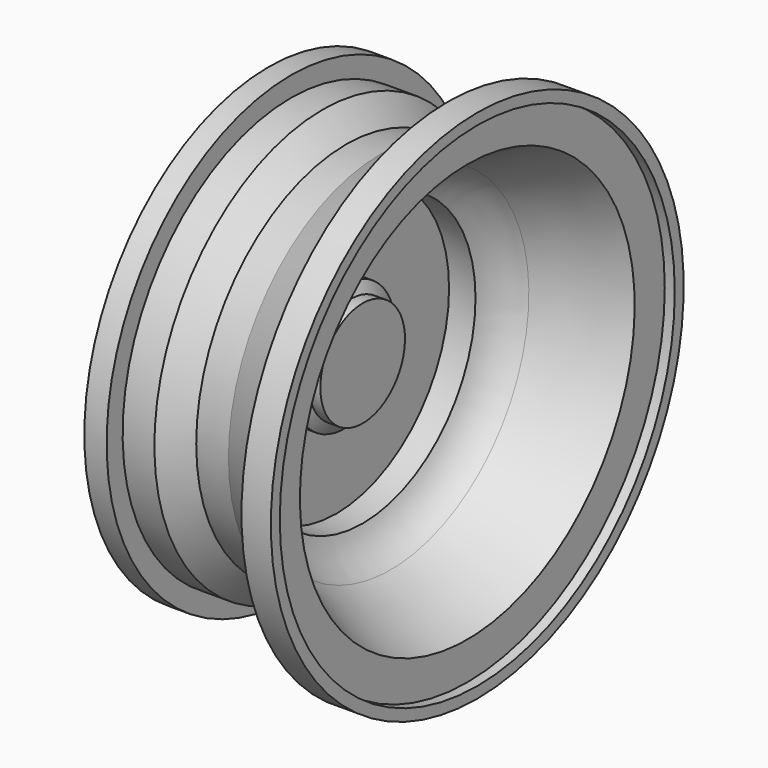
from build123d import *


with BuildPart() as f1:
    # F0 (on Front) → F1 (revolve)
    with BuildSketch(Plane.XZ):
        with BuildLine():
            Line((33.811152, 48.822131), (2.62328, 33.956885))
            Line((2.62328, 33.956885), (-14.282295, 32.790981))
            Line((-14.282295, 32.790981), (-25.941312, 44.158522))
            Line((-25.941312, 44.158522), (-41.680984, 44.158522))
            Line((-41.680984, 44.158522), (-41.680984, 54.068692))
            Line((-41.680984, 54.068692), (-52.757051, 54.068692))
            Line((-52.757051, 54.068692), (-52.757051, 48.822131))
            Line((-52.757051, 48.822131), (-47.219016, 48.822131))
            Line((-47.219016, 48.822131), (-47.219016, 39.494921))
            Line((-47.219016, 39.494921), (-25.941312, 39.494921))
            Line((-25.941312, 39.494921), (-20.111803, 32.790981))
            Line((-20.111803, 32.790981), (-20.111803, 28.418854))
            Line((-20.111803, 28.418854), (-25.941312, 28.418854))
            ThreePointArc((-25.941312, 28.418854), (-29.547683, 25.367754), (-30.896394, 20.840492))
            Line((-30.896394, 20.840492), (-30.896394, -42.40967))
            Line((-30.896394, -42.40967), (-19.237377, -42.40967))
            Line((-19.237377, -42.40967), (-19.237377, -60.189672))
            Line((-19.237377, -60.189672), (-6.120983, -60.189672))
            Line((-6.120983, -60.189672), (-6.120983, -36.28869))
            Line((-6.120983, -36.28869), (-6.120983, -33.956885))
            Line((-6.120983, -33.956885), (-11.950492, -33.956885))
            Line((-11.950492, -33.956885), (-15.156722, -28.710328))
            Line((-15.156722, -28.710328), (-19.237377, -28.710328))
            Line((-19.237377, -28.710328), (-19.237377, 9.764426))
            Line((-19.237377, 9.764426), (-6.120983, 9.764426))
            ThreePointArc((-6.120983, 9.764426), (-0.771836, 19.031454), (7.774593, 25.469599))
            Line((7.774593, 25.469599), (45.761641, 43.575574))
            Line((45.761641, 43.575574), (45.761641, 62.230002))
            Line((45.761641, 62.230002), (50.716721, 62.230002))
            Line((50.716721, 62.230002), (50.716721, 67.76803))
            Line((50.716721, 67.76803), (36.142953, 67.76803))
            ThreePointArc((36.142953, 67.76803), (40.174024, 57.655454), (33.811152, 48.822131))
        make_face()
    revolve(axis=Axis((-12.67918, 0, -60.189672), (-1, 0, 0)))


solid = f1.part
